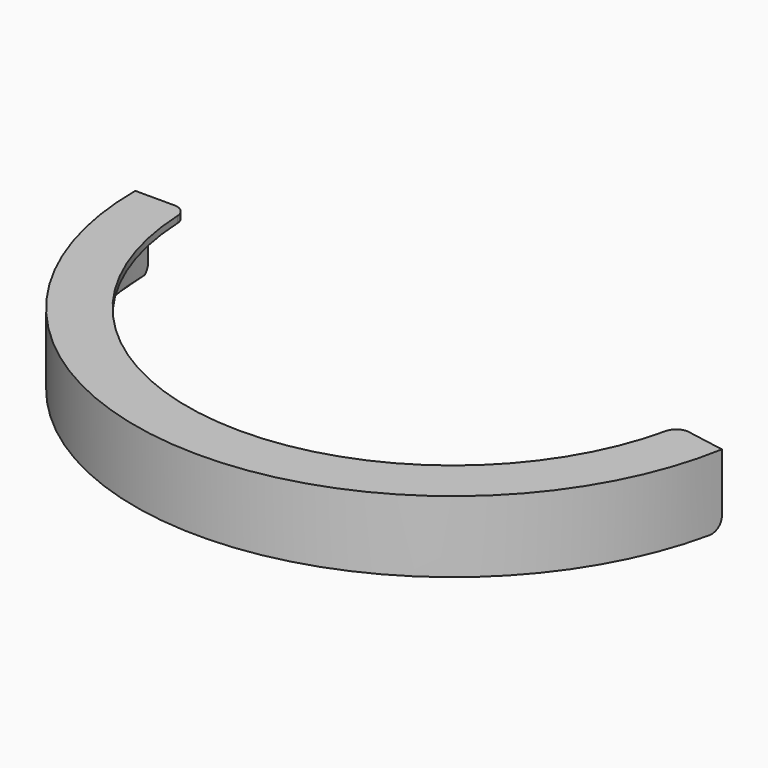
from build123d import *

# Parameters (mm, degrees)
F1_ANGLE = 170
F2_SIZE  = 0.5
F3_R     = 2


with BuildPart() as f1:
    # F0 (on Front) → F1 (revolve)
    with BuildSketch(Plane.XZ):
        Polygon((-49, 11), (-49, 0), (-47, 0), (-47, 10), (-41, 10), (-41, 11), align=None)
    revolve(axis=Axis((0, 0, 4.248688), (0, 0, 1)), revolution_arc=F1_ANGLE)

    # F2
    f2_edges = [f1.edges().sort_by_distance(p)[0] for p in [
        (-4.09632, -46.821151, 0),
    ]]
    chamfer(f2_edges, length=F2_SIZE)

    # F3
    f3_edges = [f1.edges().sort_by_distance(p)[0] for p in [
        (47.516974, -8.378525, 0),
        (-48.25, 0, 0),
        (-41, 0, 10.5),
        (40.377118, -7.119575, 10.5),
    ]]
    fillet(f3_edges, radius=F3_R)


solid = f1.part
